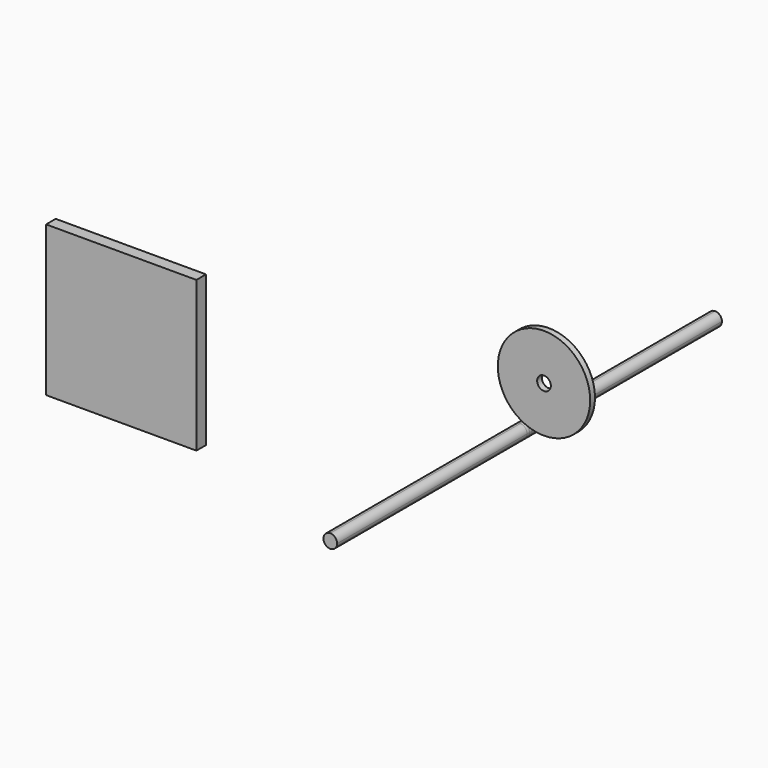
from build123d import *

# Parameters (mm, degrees)
F1_DEPTH = 200
F2_DEPTH = 2.5
F0_W     = 125
F0_H     = 125
F0_R     = 38.4
F0_R_2   = 5.6893998614
F3_DEPTH = 5


with BuildPart() as f1:
    # F0 (on Front) → F1 (new body, symmetric)
    with BuildSketch(Plane.XZ):
        with BuildLine():
            Line((0, -5.6846067522), (0, 5.6846067522))
            ThreePointArc((0, 5.6846067522), (-5.6846067522, 0), (0, -5.6846067522))
        make_face()
        with BuildLine():
            ThreePointArc((0, -5.6846067522), (4.0196239829, -4.0196239829), (5.6846067522, 0))
            ThreePointArc((5.6846067522, 0), (4.0196239829, 4.0196239829), (0, 5.6846067522))
            Line((0, 5.6846067522), (0, -5.6846067522))
        make_face()
    extrude(amount=F1_DEPTH, both=True)

    # F0 (on Front) → F2 (join, symmetric)
    with BuildSketch(Plane.XZ):
        with BuildLine():
            ThreePointArc((0, -5.6846067522), (4.0196239829, -4.0196239829), (5.6846067522, 0))
            ThreePointArc((5.6846067522, 0), (4.0196239829, 4.0196239829), (0, 5.6846067522))
            Line((0, 5.6846067522), (0, -5.6846067522))
        make_face()
        with BuildLine():
            Line((0, -5.6846067522), (0, 5.6846067522))
            ThreePointArc((0, 5.6846067522), (-5.6846067522, 0), (0, -5.6846067522))
        make_face()
    extrude(amount=F2_DEPTH, both=True)


with BuildPart() as f2:
    # F0 (on Front) → F2, piece 2 (new body, symmetric)
    with BuildSketch(Plane.XZ):
        with Locations((-327.8169184923, -35.8895286918)):
            Rectangle(F0_W, F0_H)
    extrude(amount=F2_DEPTH, both=True)

    # F3 (add): a face of the model
    f3_faces = [f2.faces().sort_by_distance(p)[0] for p in [
        (-327.8169184923, -2.5, -35.8895286918),
    ]]
    extrude(f3_faces, amount=F3_DEPTH)


with BuildPart() as f2b:
    # F0 (on Front) → F2, piece 3 (new body, symmetric)
    with BuildSketch(Plane.XZ):
        with Locations((19.7291626689, 41.6138138982)):
            Circle(F0_R)
        with Locations((19.7291626689, 41.6138138982)):
            Circle(F0_R_2, mode=Mode.SUBTRACT)
    extrude(amount=F2_DEPTH, both=True)


solid = Compound([f1.part, f2.part, f2b.part])
